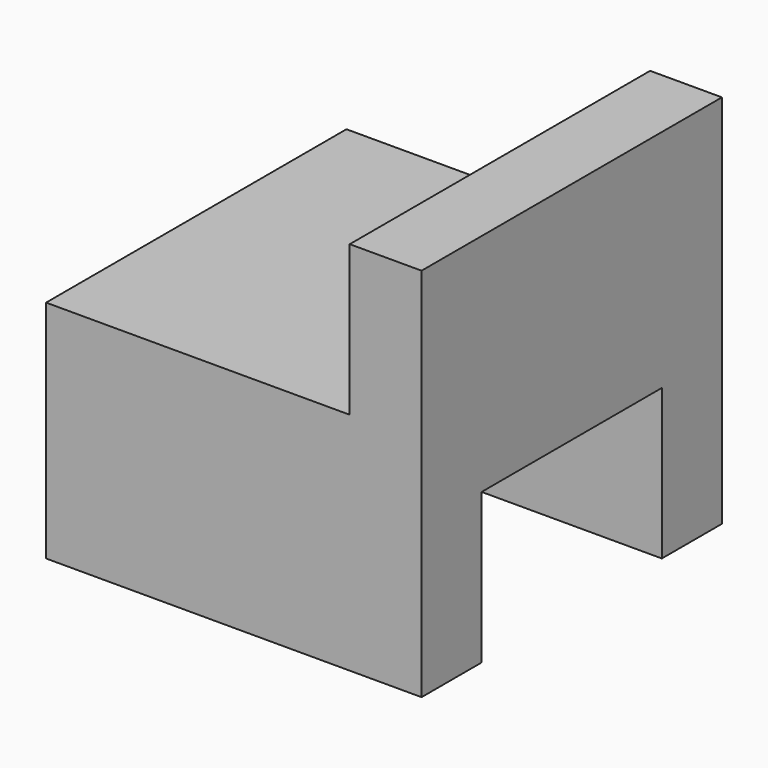
from build123d import *

# Parameters (mm, degrees)
F0_W     = 100
F0_H     = 100
F1_DEPTH = 100
F2_W     = 80.875554
F2_H     = 100
F3_DEPTH = 40
F4_W     = 60
F4_H     = 40
F5_DEPTH = 100.001


with BuildPart() as f1:
    # F0 (on Top) → F1 (new body)
    with BuildSketch(Plane.XY):
        Rectangle(F0_W, F0_H)
    extrude(amount=F1_DEPTH)

    # F2 (on face) → F3 (cut)
    with BuildSketch(Plane.XY.offset(100)):
        with Locations((-9.562223, 0)):
            Rectangle(F2_W, F2_H)
    extrude(amount=-F3_DEPTH, mode=Mode.SUBTRACT)

    # F4 (on face) → F5 (cut, through all)
    with BuildSketch(Plane(origin=(-50, 0, 0), x_dir=(0, -1, 0), z_dir=(-1, 0, 0))):
        with Locations((0, 20)):
            Rectangle(F4_W, F4_H)
    extrude(amount=-F5_DEPTH, mode=Mode.SUBTRACT)


solid = f1.part
